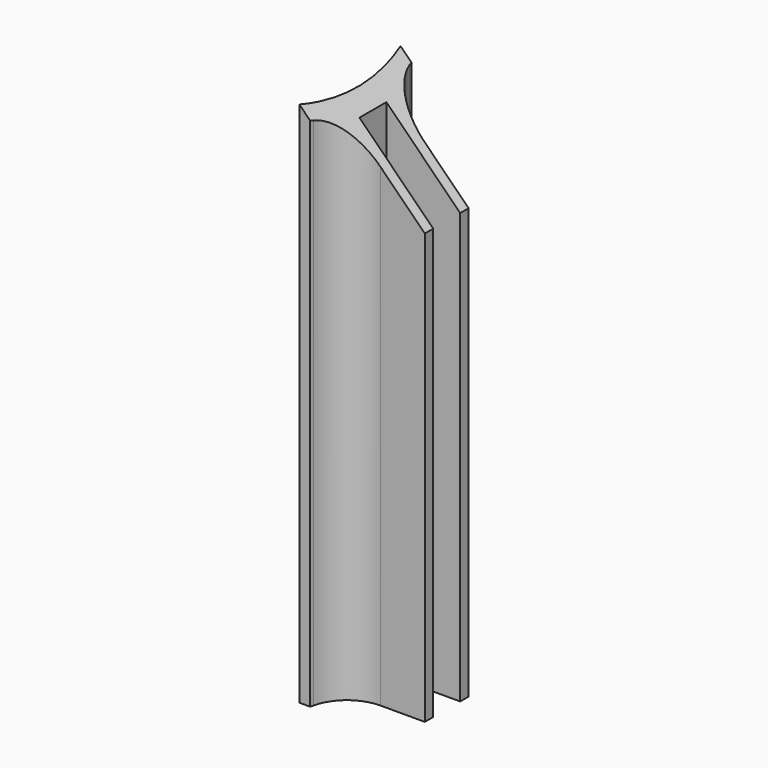
from build123d import *

# Parameters (mm, degrees)
PAD001_DEPTH      = 50
FILLET_R          = 4
POCKET_DEPTH      = 8.601
POCKET_DEPTH_BACK = 3.401


with BuildPart() as part:
    # Sketch002 → Pad001 (new body)
    with BuildSketch(Plane.XY):
        with BuildLine():
            ThreePointArc((24.269322, -6), (25, 0), (24.269322, 6))
            Line((24.269322, 6), (25.298221, 6))
            ThreePointArc((25.869673, 2.6), (25.640366, 4.309482), (25.298221, 6))
            Line((25.869673, 2.6), (33.451654, 2.6))
            Line((33.451654, 2.6), (33.451654, 1.6))
            Line((33.451654, 1.6), (26.451654, 1.6))
            Line((26.451654, 1.6), (26.451654, -1.6))
            Line((26.451654, -1.6), (33.451654, -1.6))
            Line((33.451654, -1.6), (33.451654, -2.6))
            Line((33.451654, -2.6), (25.869673, -2.6))
            ThreePointArc((25.298221, -6), (25.640366, -4.309482), (25.869673, -2.6))
            Line((24.269322, -6), (25.298221, -6))
        make_face()
    extrude(amount=PAD001_DEPTH)

    # Fillet
    fillet_edges = [part.edges().sort_by_distance(p)[0] for p in [
        (25.869673, -2.6, 25),
        (25.869673, 2.6, 25),
    ]]
    fillet(fillet_edges, radius=FILLET_R)

    # Sketch003 (on Face15 of Fillet) → Pocket (cut, two sides)
    with BuildSketch(Plane.XZ.offset(2.6)) as pocket_sk:
        Polygon((33.451654, 50), (33.451654, 40.817668), (24.269322, 50), align=None)
    extrude(amount=-POCKET_DEPTH, mode=Mode.SUBTRACT)
    extrude(pocket_sk.sketch, amount=POCKET_DEPTH_BACK, mode=Mode.SUBTRACT)


solid = part.part
